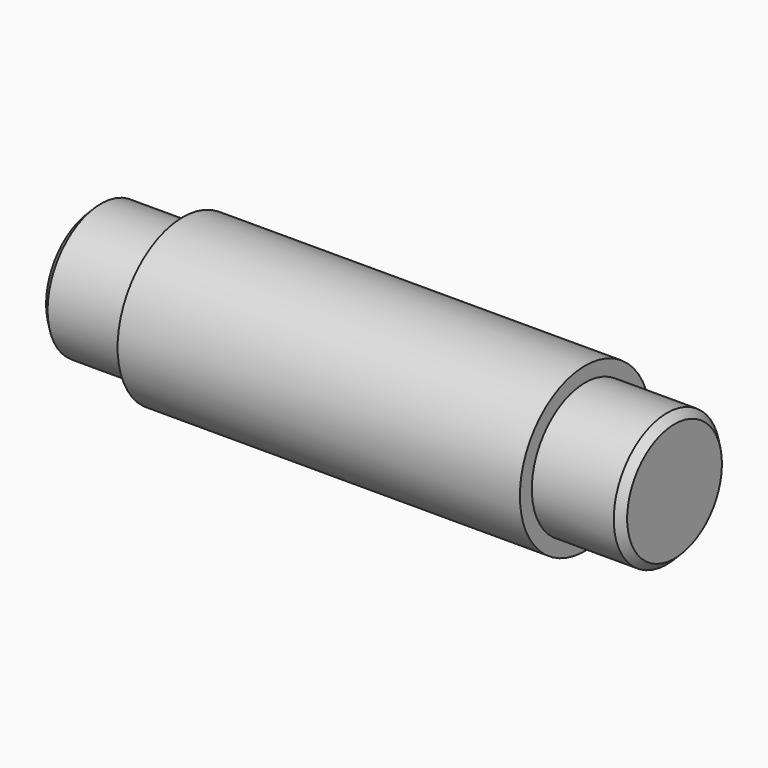
from build123d import *

# Parameters (mm, degrees)
F0_R          = 10.95
F1_DEPTH      = 27
F1_DEPTH_BACK = 27
F2_R          = 8.95
F3_DEPTH      = 12
F4_SIZE       = 1
F5_R          = 8.95
F6_DEPTH      = 12
F7_SIZE       = 1


with BuildPart() as f1:
    # F0 (on Right) → F1 (new body, two sides)
    with BuildSketch(Plane.YZ) as f1_sk:
        Circle(F0_R)
    extrude(amount=F1_DEPTH)
    extrude(f1_sk.sketch, amount=-F1_DEPTH_BACK)

    # F2 (on face) → F3 (join)
    with BuildSketch(Plane.YZ.offset(27)):
        Circle(F2_R)
    extrude(amount=F3_DEPTH)

    # F4
    f4_edges = [f1.edges().sort_by_distance(p)[0] for p in [
        (39, -8.95, 0),
    ]]
    chamfer(f4_edges, length=F4_SIZE)

    # F5 (on face) → F6 (join)
    with BuildSketch(Plane(origin=(-27, 0, 0), x_dir=(0, -1, 0), z_dir=(-1, 0, 0))):
        Circle(F5_R)
    extrude(amount=F6_DEPTH)

    # F7
    f7_edges = [f1.edges().sort_by_distance(p)[0] for p in [
        (-39, 8.95, 0),
    ]]
    chamfer(f7_edges, length=F7_SIZE)


solid = f1.part
